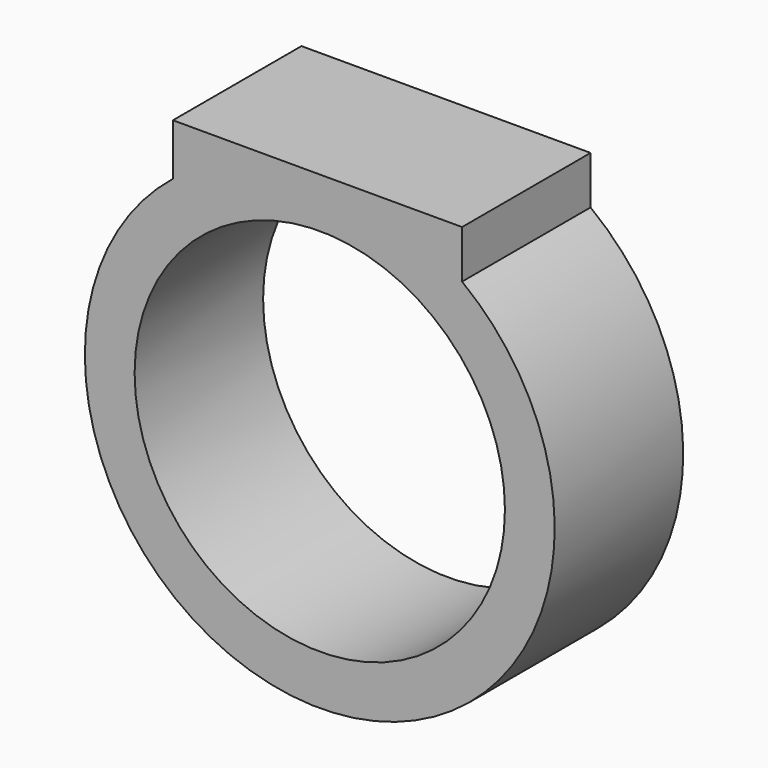
from build123d import *

# Parameters (mm, degrees)
F0_R     = 28.8182416774
F1_DEPTH = 25


with BuildPart() as f1:
    # F0 (on Front) → F1 (new body)
    with BuildSketch(Plane.XZ):
        with BuildLine():
            Line((22.1484375, 36.5625), (-22.8515625, 36.5625))
            Line((-22.8515625, 36.5625), (-22.8515625, 28.5415924146))
            ThreePointArc((-22.8515625, 28.5415924146), (0.446037064, -36.5597792278), (22.1484375, 29.0906019628))
            Line((22.1484375, 29.0906019628), (22.1484375, 36.5625))
        make_face()
        Circle(F0_R, mode=Mode.SUBTRACT)
    extrude(amount=F1_DEPTH)


solid = f1.part
